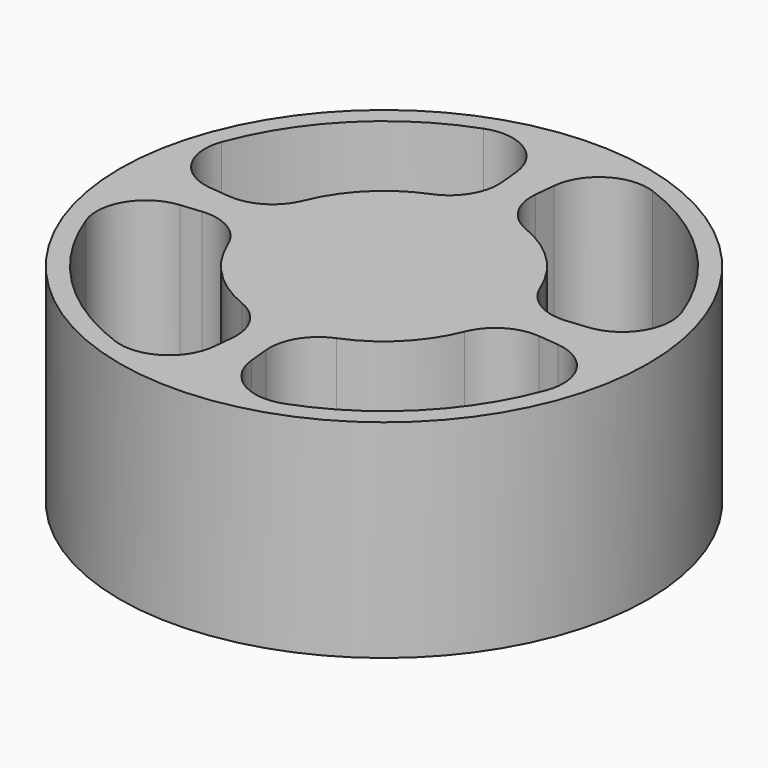
from build123d import *

# Parameters (mm, degrees)
F0_R     = 17.78
F0_R_2   = 7.3025
F1_DEPTH = 13.97
F2_DEPTH = 10.16


with BuildPart() as f1:
    # F0 (on Top) → F1 (new body)
    with BuildSketch(Plane.XY):
        Circle(F0_R)
        with BuildLine():
            ThreePointArc((-11.350395, -1.126535), (-9.310827, -1.589748), (-7.958699, -3.185415))
            ThreePointArc((-7.958699, -3.185415), (-6.061673, -6.061673), (-3.185415, -7.958699))
            ThreePointArc((-3.185415, -7.958699), (-1.589748, -9.310827), (-1.126535, -11.350395))
            Line((-1.126535, -11.350395), (-1.263071, -12.726064))
            ThreePointArc((-1.263071, -12.726064), (-2.794582, -15.197347), (-5.686158, -15.499926))
            ThreePointArc((-5.686158, -15.499926), (-11.674333, -11.674333), (-15.499926, -5.686158))
            ThreePointArc((-15.499926, -5.686158), (-15.197347, -2.794582), (-12.726064, -1.263071))
            Line((-12.726064, -1.263071), (-11.350395, -1.126535))
        make_face(mode=Mode.SUBTRACT)
        Circle(F0_R_2, mode=Mode.SUBTRACT)
        with BuildLine():
            ThreePointArc((7.958699, -3.185415), (9.310827, -1.589748), (11.350395, -1.126535))
            Line((11.350395, -1.126535), (12.726064, -1.263071))
            ThreePointArc((12.726064, -1.263071), (15.197347, -2.794582), (15.499926, -5.686158))
            ThreePointArc((15.499926, -5.686158), (11.674333, -11.674333), (5.686158, -15.499926))
            ThreePointArc((5.686158, -15.499926), (2.794582, -15.197347), (1.263071, -12.726064))
            Line((1.263071, -12.726064), (1.126535, -11.350395))
            ThreePointArc((1.126535, -11.350395), (1.589748, -9.310827), (3.185415, -7.958699))
            ThreePointArc((3.185415, -7.958699), (6.061673, -6.061673), (7.958699, -3.185415))
        make_face(mode=Mode.SUBTRACT)
        with BuildLine():
            ThreePointArc((-7.958699, 3.185415), (-9.310827, 1.589748), (-11.350395, 1.126535))
            Line((-11.350395, 1.126535), (-12.726064, 1.263071))
            ThreePointArc((-12.726064, 1.263071), (-15.197347, 2.794582), (-15.499926, 5.686158))
            ThreePointArc((-15.499926, 5.686158), (-11.674333, 11.674333), (-5.686158, 15.499926))
            ThreePointArc((-5.686158, 15.499926), (-2.794582, 15.197347), (-1.263071, 12.726064))
            Line((-1.263071, 12.726064), (-1.126535, 11.350395))
            ThreePointArc((-1.126535, 11.350395), (-1.589748, 9.310827), (-3.185415, 7.958699))
            ThreePointArc((-3.185415, 7.958699), (-6.061673, 6.061673), (-7.958699, 3.185415))
        make_face(mode=Mode.SUBTRACT)
        with BuildLine():
            Line((12.726064, 1.263071), (11.350395, 1.126535))
            ThreePointArc((11.350395, 1.126535), (9.310827, 1.589748), (7.958699, 3.185415))
            ThreePointArc((7.958699, 3.185415), (6.061673, 6.061673), (3.185415, 7.958699))
            ThreePointArc((3.185415, 7.958699), (1.589748, 9.310827), (1.126535, 11.350395))
            Line((1.126535, 11.350395), (1.263071, 12.726064))
            ThreePointArc((1.263071, 12.726064), (2.794582, 15.197347), (5.686158, 15.499926))
            ThreePointArc((5.686158, 15.499926), (11.674333, 11.674333), (15.499926, 5.686158))
            ThreePointArc((15.499926, 5.686158), (15.197347, 2.794582), (12.726064, 1.263071))
        make_face(mode=Mode.SUBTRACT)
        with BuildLine():
            ThreePointArc((-3.185415, -7.958699), (-6.061673, -6.061673), (-7.958699, -3.185415))
            ThreePointArc((-7.958699, -3.185415), (-9.310827, -1.589748), (-11.350395, -1.126535))
            Line((-11.350395, -1.126535), (-12.726064, -1.263071))
            ThreePointArc((-12.726064, -1.263071), (-15.197347, -2.794582), (-15.499926, -5.686158))
            ThreePointArc((-15.499926, -5.686158), (-11.674333, -11.674333), (-5.686158, -15.499926))
            ThreePointArc((-5.686158, -15.499926), (-2.794582, -15.197347), (-1.263071, -12.726064))
            Line((-1.263071, -12.726064), (-1.126535, -11.350395))
            ThreePointArc((-1.126535, -11.350395), (-1.589748, -9.310827), (-3.185415, -7.958699))
        make_face()
        Circle(F0_R_2)
        with BuildLine():
            Line((-12.726064, 1.263071), (-11.350395, 1.126535))
            ThreePointArc((-11.350395, 1.126535), (-9.310827, 1.589748), (-7.958699, 3.185415))
            ThreePointArc((-7.958699, 3.185415), (-6.061673, 6.061673), (-3.185415, 7.958699))
            ThreePointArc((-3.185415, 7.958699), (-1.589748, 9.310827), (-1.126535, 11.350395))
            Line((-1.126535, 11.350395), (-1.263071, 12.726064))
            ThreePointArc((-1.263071, 12.726064), (-2.794582, 15.197347), (-5.686158, 15.499926))
            ThreePointArc((-5.686158, 15.499926), (-11.674333, 11.674333), (-15.499926, 5.686158))
            ThreePointArc((-15.499926, 5.686158), (-15.197347, 2.794582), (-12.726064, 1.263071))
        make_face()
        with BuildLine():
            ThreePointArc((7.958699, 3.185415), (9.310827, 1.589748), (11.350395, 1.126535))
            Line((11.350395, 1.126535), (12.726064, 1.263071))
            ThreePointArc((12.726064, 1.263071), (15.197347, 2.794582), (15.499926, 5.686158))
            ThreePointArc((15.499926, 5.686158), (11.674333, 11.674333), (5.686158, 15.499926))
            ThreePointArc((5.686158, 15.499926), (2.794582, 15.197347), (1.263071, 12.726064))
            Line((1.263071, 12.726064), (1.126535, 11.350395))
            ThreePointArc((1.126535, 11.350395), (1.589748, 9.310827), (3.185415, 7.958699))
            ThreePointArc((3.185415, 7.958699), (6.061673, 6.061673), (7.958699, 3.185415))
        make_face()
        with BuildLine():
            Line((12.726064, -1.263071), (11.350395, -1.126535))
            ThreePointArc((11.350395, -1.126535), (9.310827, -1.589748), (7.958699, -3.185415))
            ThreePointArc((7.958699, -3.185415), (6.061673, -6.061673), (3.185415, -7.958699))
            ThreePointArc((3.185415, -7.958699), (1.589748, -9.310827), (1.126535, -11.350395))
            Line((1.126535, -11.350395), (1.263071, -12.726064))
            ThreePointArc((1.263071, -12.726064), (2.794582, -15.197347), (5.686158, -15.499926))
            ThreePointArc((5.686158, -15.499926), (11.674333, -11.674333), (15.499926, -5.686158))
            ThreePointArc((15.499926, -5.686158), (15.197347, -2.794582), (12.726064, -1.263071))
        make_face()
    extrude(amount=-F1_DEPTH)

    # F0 (on Top) → F2 (cut)
    with BuildSketch(Plane.XY):
        with BuildLine():
            ThreePointArc((-3.185415, -7.958699), (-6.061673, -6.061673), (-7.958699, -3.185415))
            ThreePointArc((-7.958699, -3.185415), (-9.310827, -1.589748), (-11.350395, -1.126535))
            Line((-11.350395, -1.126535), (-12.726064, -1.263071))
            ThreePointArc((-12.726064, -1.263071), (-15.197347, -2.794582), (-15.499926, -5.686158))
            ThreePointArc((-15.499926, -5.686158), (-11.674333, -11.674333), (-5.686158, -15.499926))
            ThreePointArc((-5.686158, -15.499926), (-2.794582, -15.197347), (-1.263071, -12.726064))
            Line((-1.263071, -12.726064), (-1.126535, -11.350395))
            ThreePointArc((-1.126535, -11.350395), (-1.589748, -9.310827), (-3.185415, -7.958699))
        make_face()
        with BuildLine():
            Line((-12.726064, 1.263071), (-11.350395, 1.126535))
            ThreePointArc((-11.350395, 1.126535), (-9.310827, 1.589748), (-7.958699, 3.185415))
            ThreePointArc((-7.958699, 3.185415), (-6.061673, 6.061673), (-3.185415, 7.958699))
            ThreePointArc((-3.185415, 7.958699), (-1.589748, 9.310827), (-1.126535, 11.350395))
            Line((-1.126535, 11.350395), (-1.263071, 12.726064))
            ThreePointArc((-1.263071, 12.726064), (-2.794582, 15.197347), (-5.686158, 15.499926))
            ThreePointArc((-5.686158, 15.499926), (-11.674333, 11.674333), (-15.499926, 5.686158))
            ThreePointArc((-15.499926, 5.686158), (-15.197347, 2.794582), (-12.726064, 1.263071))
        make_face()
        with BuildLine():
            ThreePointArc((7.958699, 3.185415), (9.310827, 1.589748), (11.350395, 1.126535))
            Line((11.350395, 1.126535), (12.726064, 1.263071))
            ThreePointArc((12.726064, 1.263071), (15.197347, 2.794582), (15.499926, 5.686158))
            ThreePointArc((15.499926, 5.686158), (11.674333, 11.674333), (5.686158, 15.499926))
            ThreePointArc((5.686158, 15.499926), (2.794582, 15.197347), (1.263071, 12.726064))
            Line((1.263071, 12.726064), (1.126535, 11.350395))
            ThreePointArc((1.126535, 11.350395), (1.589748, 9.310827), (3.185415, 7.958699))
            ThreePointArc((3.185415, 7.958699), (6.061673, 6.061673), (7.958699, 3.185415))
        make_face()
        with BuildLine():
            Line((12.726064, -1.263071), (11.350395, -1.126535))
            ThreePointArc((11.350395, -1.126535), (9.310827, -1.589748), (7.958699, -3.185415))
            ThreePointArc((7.958699, -3.185415), (6.061673, -6.061673), (3.185415, -7.958699))
            ThreePointArc((3.185415, -7.958699), (1.589748, -9.310827), (1.126535, -11.350395))
            Line((1.126535, -11.350395), (1.263071, -12.726064))
            ThreePointArc((1.263071, -12.726064), (2.794582, -15.197347), (5.686158, -15.499926))
            ThreePointArc((5.686158, -15.499926), (11.674333, -11.674333), (15.499926, -5.686158))
            ThreePointArc((15.499926, -5.686158), (15.197347, -2.794582), (12.726064, -1.263071))
        make_face()
    extrude(amount=-F2_DEPTH, mode=Mode.SUBTRACT)


solid = f1.part
